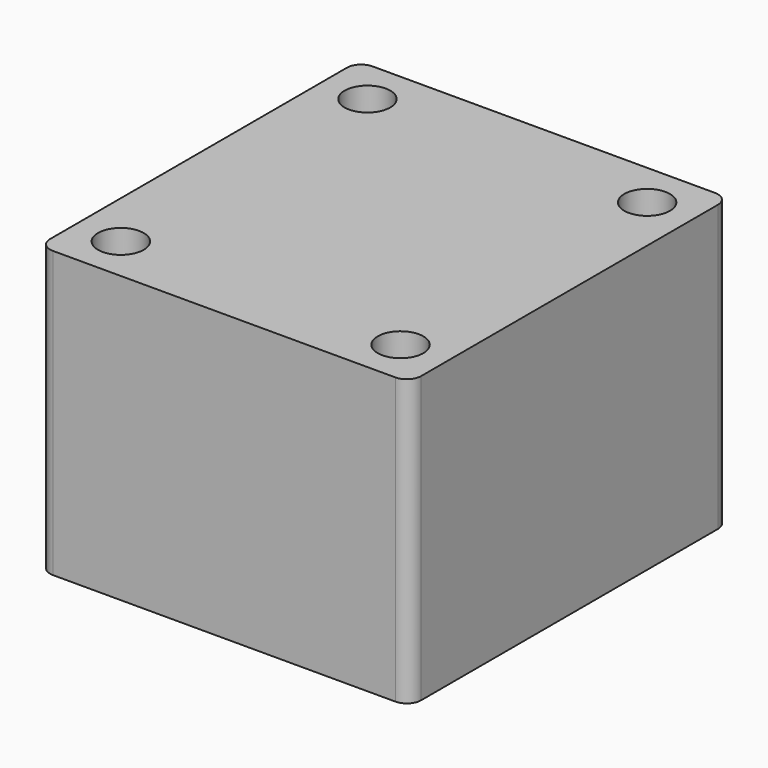
from build123d import *

# Parameters (mm, degrees)
F1_DEPTH = 10
F2_D     = 8
F3_D     = 8
F4_D     = 8
F5_D     = 8
F6_W     = 30
F6_H     = 66.012212
F7_DEPTH = 40


with BuildPart() as f1:
    # F0 (on Top) → F1 (new body)
    with BuildSketch(Plane.XY):
        with BuildLine():
            Line((30, 35), (-30, 35))
            ThreePointArc((-30, 35), (-31.767767, 34.267767), (-32.5, 32.5))
            Line((-32.5, 32.5), (-32.5, -32.5))
            ThreePointArc((-32.5, -32.5), (-31.767767, -34.267767), (-30, -35))
            Line((-30, -35), (30, -35))
            ThreePointArc((30, -35), (31.767767, -34.267767), (32.5, -32.5))
            Line((32.5, -32.5), (32.5, 32.5))
            ThreePointArc((32.5, 32.5), (31.767767, 34.267767), (30, 35))
        make_face()
    extrude(amount=F1_DEPTH)

    # F2 (through all)
    with Locations(Plane(origin=(0, 0, 0), x_dir=(1, 0, 0), z_dir=(0, 0, -1))):
        with Locations((24.5, 27)):
            Hole(F2_D / 2)

    # F3 (through all)
    with Locations(Plane(origin=(0, 0, 0), x_dir=(1, 0, 0), z_dir=(0, 0, -1))):
        with Locations((-24.5, 27)):
            Hole(F3_D / 2)

    # F4 (through all)
    with Locations(Plane(origin=(0, 0, 0), x_dir=(1, 0, 0), z_dir=(0, 0, -1))):
        with Locations((24.5, -27)):
            Hole(F4_D / 2)

    # F5 (through all)
    with Locations(Plane(origin=(0, 0, 0), x_dir=(1, 0, 0), z_dir=(0, 0, -1))):
        with Locations((-24.5, -27)):
            Hole(F5_D / 2)

    # F6 (on Top) + F0 (on Top) → F7 (join)
    with BuildSketch(Plane.XY):
        Rectangle(F6_W, F6_H)
    with BuildSketch(Plane.XY):
        with BuildLine():
            Line((30, 35), (-30, 35))
            ThreePointArc((-30, 35), (-31.767767, 34.267767), (-32.5, 32.5))
            Line((-32.5, 32.5), (-32.5, -32.5))
            ThreePointArc((-32.5, -32.5), (-31.767767, -34.267767), (-30, -35))
            Line((-30, -35), (30, -35))
            ThreePointArc((30, -35), (31.767767, -34.267767), (32.5, -32.5))
            Line((32.5, -32.5), (32.5, 32.5))
            ThreePointArc((32.5, 32.5), (31.767767, 34.267767), (30, 35))
        make_face()
    extrude(amount=-F7_DEPTH)


solid = f1.part
